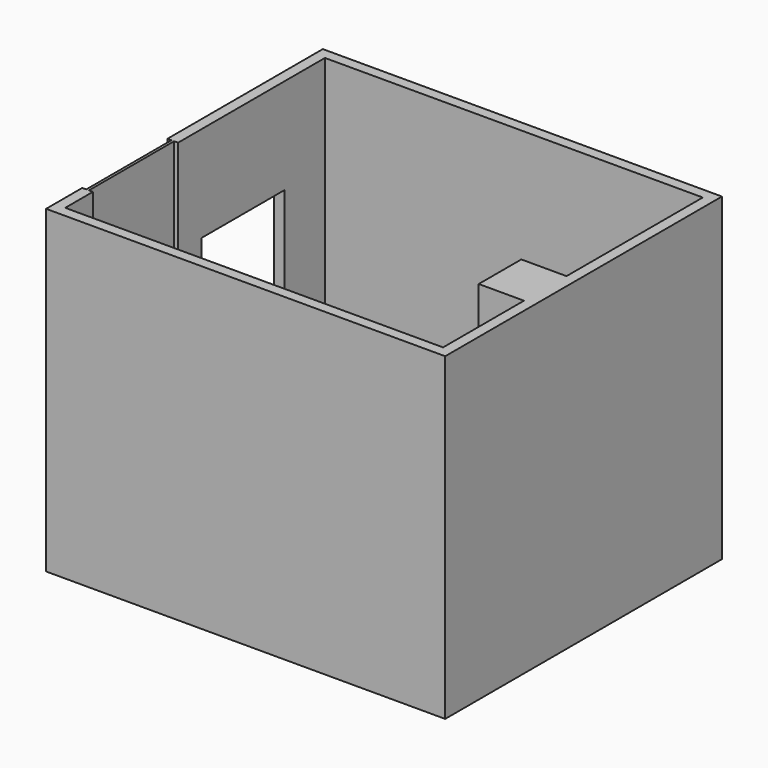
from build123d import *

# Parameters (mm, degrees)
F0_W     = 3810
F0_H     = 3302
F0_W_2   = 3606.8
F0_H_2   = 3098.8
F1_DEPTH = 3048
F2_W     = 990.6
F2_H     = 2133.6
F3_DEPTH = 101.6
F4_W     = 431.8
F4_H     = 508
F5_DEPTH = 3048
F6_W     = 1016
F6_H     = 2336.8
F7_DEPTH = 101.6
F8_W     = 25.4
F8_H     = 1016
F9_DEPTH = 2336.8


with BuildPart() as f1:
    # F0 (on Top) → F1 (new body)
    with BuildSketch(Plane.XY):
        Rectangle(F0_W, F0_H)
        Rectangle(F0_W_2, F0_H_2, mode=Mode.SUBTRACT)
    extrude(amount=F1_DEPTH)

    # F2 (on face) → F3 (cut, through all)
    with BuildSketch(Plane.YZ.offset(-1803.4)):
        with Locations((571.5, 1066.8)):
            Rectangle(F2_W, F2_H)
    extrude(amount=-F3_DEPTH, mode=Mode.SUBTRACT)

    # F4 (on face) → F5 (join, through all)
    with BuildSketch(Plane(origin=(0, 0, 0), x_dir=(1, 0, 0), z_dir=(0, 0, -1))):
        with Locations((1587.5, 330.2)):
            Rectangle(F4_W, F4_H)
    extrude(amount=-F5_DEPTH)

    # F6 (on face) → F7 (cut, through all)
    with BuildSketch(Plane.YZ.offset(-1803.4)):
        with Locations((-711.2, 1879.6)):
            Rectangle(F6_W, F6_H)
    extrude(amount=-F7_DEPTH, mode=Mode.SUBTRACT)

    # F8 (on face) → F9 (join, through all)
    with BuildSketch(Plane.XY.offset(711.2)):
        with Locations((-1854.2, -711.2)):
            Rectangle(F8_W, F8_H)
    extrude(amount=F9_DEPTH)


solid = f1.part
